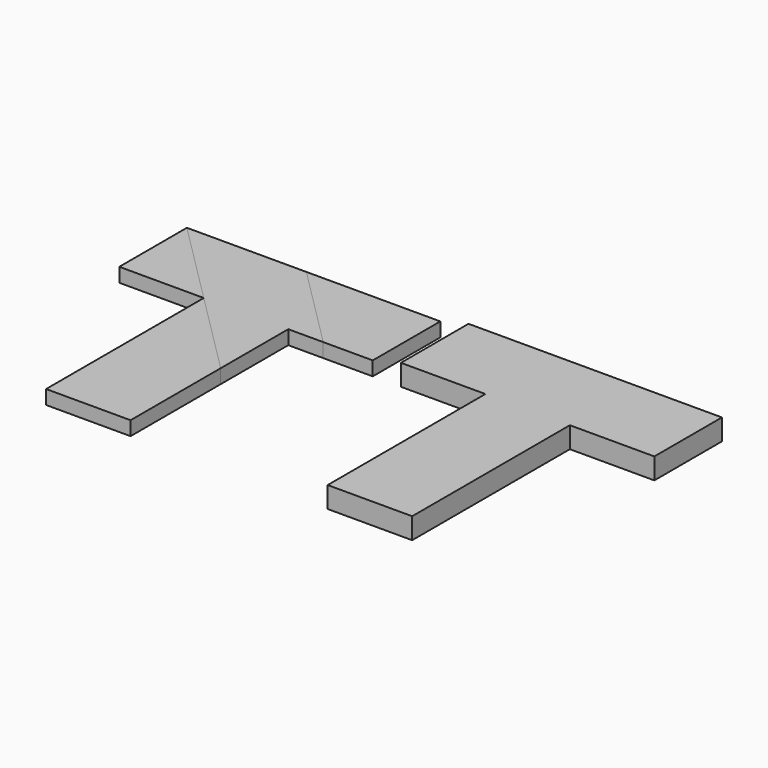
from build123d import *

# Parameters (mm, degrees)
F1_DEPTH = 6.35
F2_DEPTH = 6.35
F3_DEPTH = 6.35
F4_DEPTH = 6.35
F5_DEPTH = 9.525


with BuildPart() as f1:
    # F0 (on Top) → F1 (new body)
    with BuildSketch(Plane.XY):
        Polygon((-52.560511, 28.150006), (-14.460511, 28.150006), (-52.560511, 66.250006), align=None)
    extrude(amount=F1_DEPTH)


with BuildPart() as f2:
    # F0 (on Top) → F2 (new body)
    with BuildSketch(Plane.XY):
        Polygon((-14.460511, 28.150006), (23.639489, -9.949994), (23.639489, 28.150006), (39.421025, 28.150006), (1.321025, 66.250006), (-52.560511, 66.250006), align=None)
    extrude(amount=F2_DEPTH)


with BuildPart() as f3:
    # F0 (on Top) → F3 (new body)
    with BuildSketch(Plane.XY):
        Polygon((1.321025, 66.250006), (39.421025, 28.150006), (61.739489, 28.150006), (61.739489, 66.250006), align=None)
    extrude(amount=F3_DEPTH)


with BuildPart() as f4:
    # F0 (on Top) → F4 (new body)
    with BuildSketch(Plane.XY):
        Polygon((-14.460511, -60.749994), (23.639489, -60.749994), (23.639489, -9.949994), (-14.460511, 28.150006), align=None)
    extrude(amount=F4_DEPTH)


with BuildPart() as f5:
    # F0 (on Top) → F5 (new body)
    with BuildSketch(Plane.XY):
        Polygon((-52.560511, 28.150006), (-14.460511, 28.150006), (-52.560511, 66.250006), align=None)
        Polygon((-14.460511, -60.749994), (23.639489, -60.749994), (23.639489, -9.949994), (-14.460511, 28.150006), align=None)
        Polygon((-14.460511, 28.150006), (23.639489, -9.949994), (23.639489, 28.150006), (39.421025, 28.150006), (1.321025, 66.250006), (-52.560511, 66.250006), align=None)
        Polygon((1.321025, 66.250006), (39.421025, 28.150006), (61.739489, 28.150006), (61.739489, 66.250006), align=None)
    extrude(amount=F5_DEPTH)


with BuildPart() as f5_1:
    # F6: moved
    add(f5.part.moved(Location((127, 0, 0))))


solid = Compound([f1.part, f2.part, f3.part, f4.part, f5_1.part])
